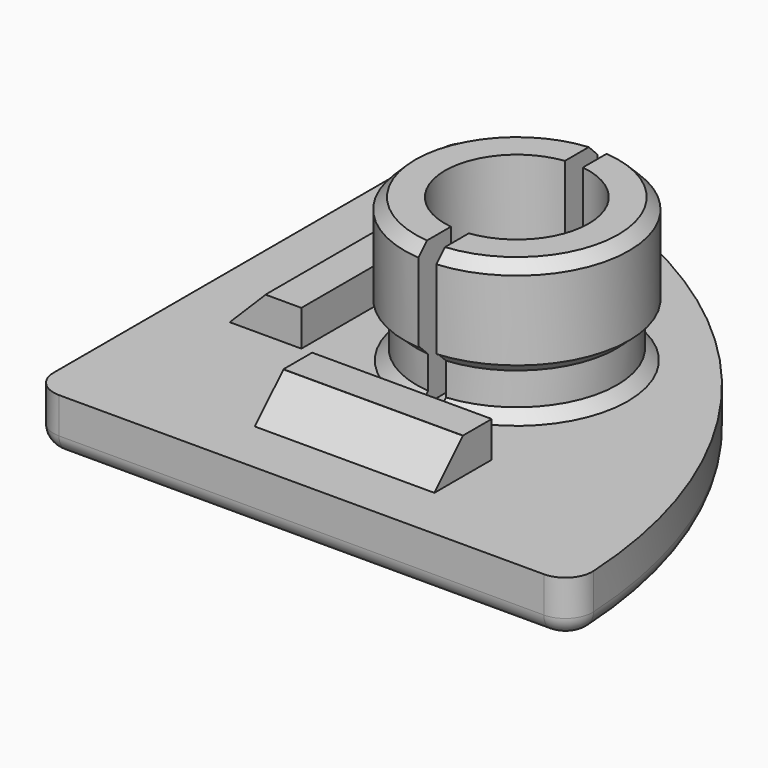
from build123d import *

# Parameters (mm, degrees)
SKETCH_R        = 6.25
SKETCH_R_2      = 4
PAD_DEPTH       = 8
PAD001_DEPTH    = 3
FILLET_R        = 1.5
FILLET001_R     = 1
SKETCH002_W     = 2
SKETCH002_H     = 10
SKETCH002_W_2   = 10
SKETCH002_H_2   = 2
PAD002_DEPTH    = 2
CHAMFER_SIZE    = 1.99
SKETCH003_R     = 6.26
SKETCH003_R_2   = 5.58
POCKET_DEPTH    = 3
SKETCH004_W     = 1
SKETCH004_H     = 14
POCKET001_DEPTH = 20
CHAMFER001_SIZE = 0.6
CHAMFER002_SIZE = 1


with BuildPart() as part:
    # Sketch → Pad (new body)
    with BuildSketch(Plane.XY):
        with Locations((15, 15)):
            Circle(SKETCH_R)
        with Locations((15, 15)):
            Circle(SKETCH_R_2, mode=Mode.SUBTRACT)
    extrude(amount=PAD_DEPTH)

    # Sketch001 (on Face3 of Pad) → Pad001 (join)
    with BuildSketch(Plane(origin=(0, 0, 0), x_dir=(1, 0, 0), z_dir=(0, 0, -1))):
        with BuildLine():
            Line((0, -28.504743), (0, 0))
            Line((0, 0), (28.504743, 0))
            ThreePointArc((30.002374, -1.584264), (29.594788, -0.469562), (28.504743, 0))
            ThreePointArc((1.584264, -30.002374), (21.216341, -21.216341), (30.002374, -1.584264))
            ThreePointArc((0, -28.504743), (0.469562, -29.594788), (1.584264, -30.002374))
        make_face()
    extrude(amount=PAD001_DEPTH)

    # Fillet
    fillet_edges = [part.edges().sort_by_distance(p)[0] for p in [
        (0, 0, -1.5),
    ]]
    fillet(fillet_edges, radius=FILLET_R)

    # Fillet001
    fillet001_edges = [part.edges().sort_by_distance(p)[0] for p in [
        (0, 15.002371, -3),
        (0.43934, 0.43934, -3),
        (0.469562, 29.594788, -3),
        (15.002371, 0, -3),
        (21.216341, 21.216341, -3),
        (29.594788, 0.469562, -3),
    ]]
    fillet(fillet001_edges, radius=FILLET001_R)

    # Sketch002 (on Face4 of Fillet001) → Pad002 (join)
    with BuildSketch(Plane.XY):
        with Locations((6, 15)):
            Rectangle(SKETCH002_W, SKETCH002_H)
        with Locations((15, 6)):
            Rectangle(SKETCH002_W_2, SKETCH002_H_2)
    extrude(amount=PAD002_DEPTH)

    # Chamfer
    chamfer_edges = [part.edges().sort_by_distance(p)[0] for p in [
        (15, 5, 0),
        (5, 15, 0),
    ]]
    chamfer(chamfer_edges, length=CHAMFER_SIZE)

    # Sketch003 → Pocket (cut)
    with BuildSketch(Plane.XY):
        with Locations((15, 15)):
            Circle(SKETCH003_R)
        with Locations((15, 15)):
            Circle(SKETCH003_R_2, mode=Mode.SUBTRACT)
    extrude(amount=POCKET_DEPTH, mode=Mode.SUBTRACT)

    # Sketch004 (on Face1 of Pocket) → Pocket001 (cut)
    with BuildSketch(Plane.XY):
        with Locations((15, 15)):
            Rectangle(SKETCH004_W, SKETCH004_H)
    extrude(amount=POCKET001_DEPTH, mode=Mode.SUBTRACT)

    # Chamfer001
    chamfer001_edges = [part.edges().sort_by_distance(p)[0] for p in [
        (19.118641, 11.235269, 0),
        (9.42, 15, 0),
        (9.42, 15, 3),
        (19.118641, 11.235269, 3),
        (8.75, 15, 8),
        (19.592793, 10.761044, 8),
    ]]
    chamfer(chamfer001_edges, length=CHAMFER001_SIZE)

    # Chamfer002
    chamfer002_edges = [part.edges().sort_by_distance(p)[0] for p in [
        (11, 15, 0),
        (18, 17.645751, 0),
    ]]
    chamfer(chamfer002_edges, length=CHAMFER002_SIZE)


solid = part.part
